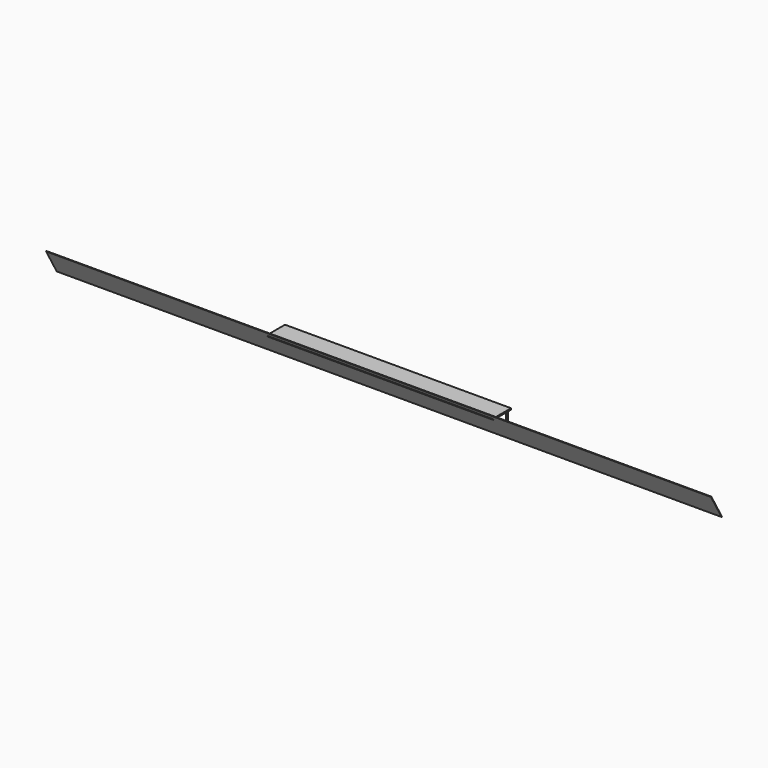
from build123d import *

# Parameters (mm, degrees)
CYLINDER010_R          = 200
CYLINDER010_DEPTH      = 4000
CYLINDER_R             = 200
CYLINDER_DEPTH         = 4000
CYLINDER008_R          = 200
CYLINDER008_DEPTH      = 4000
CYLINDER007_R          = 200
CYLINDER007_DEPTH      = 4000
CYLINDER005_R          = 200
CYLINDER005_DEPTH      = 4000
CYLINDER003_R          = 200
CYLINDER003_DEPTH      = 4000
CYLINDER004_R          = 200
CYLINDER004_DEPTH      = 4000
CYLINDER002_R          = 200
CYLINDER002_DEPTH      = 4000
CYLINDER009_R          = 200
CYLINDER009_DEPTH      = 4000
BOX001_W               = 150000
BOX001_H               = 100
BOX001_DEPTH           = 6000
BOX001_PLACEMENT_ANGLE = 30
CYLINDER001_R          = 200
CYLINDER001_DEPTH      = 4000
CYLINDER006_R          = 200
CYLINDER006_DEPTH      = 4000
BOX_W                  = 51000
BOX_H                  = 5000
BOX_DEPTH              = 300


with BuildPart() as cylinder010:
    # Cylinder010 → Cylinder010 (new body)
    with BuildSketch(Plane(origin=(-25000, -500, -3800), x_dir=(1, 0, 0), z_dir=(0, 0, 1))):
        Circle(CYLINDER010_R)
    extrude(amount=CYLINDER010_DEPTH)


with BuildPart() as cylinder:
    # Cylinder → Cylinder (new body)
    with BuildSketch(Plane(origin=(0, -500, -3800), x_dir=(1, 0, 0), z_dir=(0, 0, 1))):
        Circle(CYLINDER_R)
    extrude(amount=CYLINDER_DEPTH)


with BuildPart() as cylinder008:
    # Cylinder008 → Cylinder008 (new body)
    with BuildSketch(Plane(origin=(-15000, -500, -3800), x_dir=(1, 0, 0), z_dir=(0, 0, 1))):
        Circle(CYLINDER008_R)
    extrude(amount=CYLINDER008_DEPTH)


with BuildPart() as cylinder007:
    # Cylinder007 → Cylinder007 (new body)
    with BuildSketch(Plane(origin=(-10000, -500, -3800), x_dir=(1, 0, 0), z_dir=(0, 0, 1))):
        Circle(CYLINDER007_R)
    extrude(amount=CYLINDER007_DEPTH)


with BuildPart() as cylinder005:
    # Cylinder005 → Cylinder005 (new body)
    with BuildSketch(Plane(origin=(25000, -500, -3800), x_dir=(1, 0, 0), z_dir=(0, 0, 1))):
        Circle(CYLINDER005_R)
    extrude(amount=CYLINDER005_DEPTH)


with BuildPart() as cylinder003:
    # Cylinder003 → Cylinder003 (new body)
    with BuildSketch(Plane(origin=(15000, -500, -3800), x_dir=(1, 0, 0), z_dir=(0, 0, 1))):
        Circle(CYLINDER003_R)
    extrude(amount=CYLINDER003_DEPTH)


with BuildPart() as cylinder004:
    # Cylinder004 → Cylinder004 (new body)
    with BuildSketch(Plane(origin=(20000, -500, -3800), x_dir=(1, 0, 0), z_dir=(0, 0, 1))):
        Circle(CYLINDER004_R)
    extrude(amount=CYLINDER004_DEPTH)


with BuildPart() as cylinder002:
    # Cylinder002 → Cylinder002 (new body)
    with BuildSketch(Plane(origin=(10000, -500, -3800), x_dir=(1, 0, 0), z_dir=(0, 0, 1))):
        Circle(CYLINDER002_R)
    extrude(amount=CYLINDER002_DEPTH)


with BuildPart() as cylinder009:
    # Cylinder009 → Cylinder009 (new body)
    with BuildSketch(Plane(origin=(-20000, -500, -3800), x_dir=(1, 0, 0), z_dir=(0, 0, 1))):
        Circle(CYLINDER009_R)
    extrude(amount=CYLINDER009_DEPTH)


with BuildPart() as cube001:
    # Box001 → Box001 (new body)
    with BuildSketch(Plane.XY):
        with Locations((75000, 50)):
            Rectangle(BOX001_W, BOX001_H)
    extrude(amount=BOX001_DEPTH)


with BuildPart() as cube001_1:
    # Box001 placement: moved
    add(cube001.part.moved(Location((-75000, -2500, -4000))).rotate(Axis((-75000, -2500, -4000), (1, 0, 0)), BOX001_PLACEMENT_ANGLE))


with BuildPart() as cylinder001:
    # Cylinder001 → Cylinder001 (new body)
    with BuildSketch(Plane(origin=(5000, -500, -3800), x_dir=(1, 0, 0), z_dir=(0, 0, 1))):
        Circle(CYLINDER001_R)
    extrude(amount=CYLINDER001_DEPTH)


with BuildPart() as cylinder006:
    # Cylinder006 → Cylinder006 (new body)
    with BuildSketch(Plane(origin=(-5000, -500, -3800), x_dir=(1, 0, 0), z_dir=(0, 0, 1))):
        Circle(CYLINDER006_R)
    extrude(amount=CYLINDER006_DEPTH)


with BuildPart() as fusion:
    # Box → Box (new body)
    with BuildSketch(Plane(origin=(-25500, -5000, 200), x_dir=(1, 0, 0), z_dir=(0, 0, 1))):
        with Locations((25500, 2500)):
            Rectangle(BOX_W, BOX_H)
    extrude(amount=BOX_DEPTH)

    # Fusion: union Cylinder010, Cylinder, Cylinder008, Cylinder007, Cylinder005, Cylinder003, Cylinder004, Cylinder002, Cylinder009, Cube001, Cylinder001, Cylinder006
    add(cylinder010.part)
    add(cylinder.part)
    add(cylinder008.part)
    add(cylinder007.part)
    add(cylinder005.part)
    add(cylinder003.part)
    add(cylinder004.part)
    add(cylinder002.part)
    add(cylinder009.part)
    add(cube001_1.part)
    add(cylinder001.part)
    add(cylinder006.part)


solid = fusion.part
